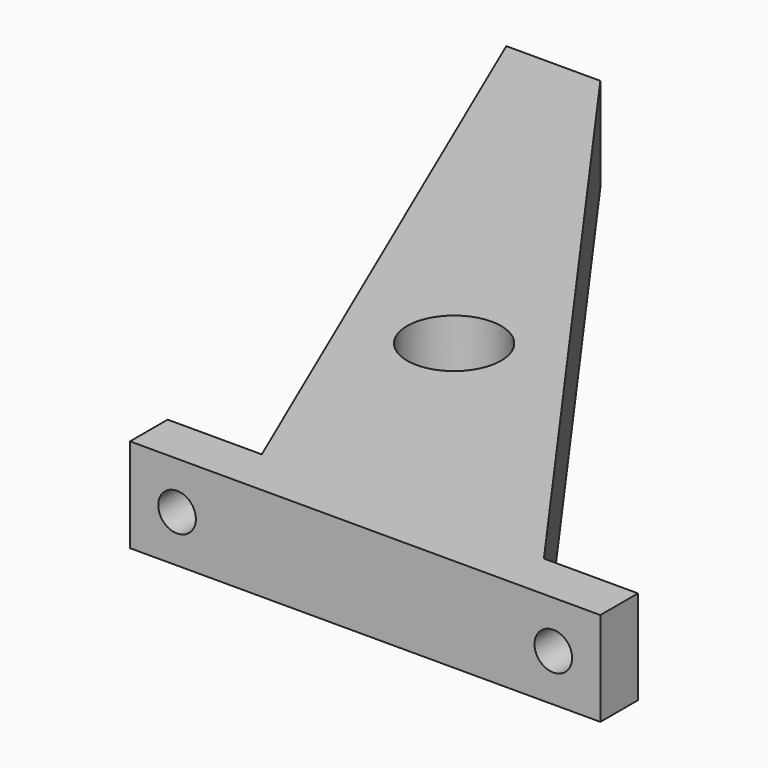
from build123d import *

# Parameters (mm, degrees)
F0_R     = 5
F1_DEPTH = 10
F2_R     = 2
F3_DEPTH = 5
F4_R     = 1.25
F5_DEPTH = 5


with BuildPart() as f1:
    # F0 (on Top) → F1 (new body)
    with BuildSketch(Plane.XY):
        Polygon((0, 5), (0, 0), (50, 0), (50, 5), (40, 5), (-10, 75), (-20, 75), (10, 5), align=None)
        with Locations((10, 30.5684879422)):
            Circle(F0_R, mode=Mode.SUBTRACT)
    extrude(amount=F1_DEPTH)

    # F2 (on face) → F3 (cut)
    with BuildSketch(Plane.XZ):
        with Locations((45, 5)):
            Circle(F2_R)
        with Locations((5, 5)):
            Circle(F2_R)
    extrude(amount=-F3_DEPTH, mode=Mode.SUBTRACT)

    # F4 (on face) → F5 (cut)
    with BuildSketch(Plane(origin=(0, 75, 0), x_dir=(-1, 0, 0), z_dir=(0, 1, 0))):
        with Locations((15, 5)):
            Circle(F4_R)
    extrude(amount=-F5_DEPTH, mode=Mode.SUBTRACT)


solid = f1.part
